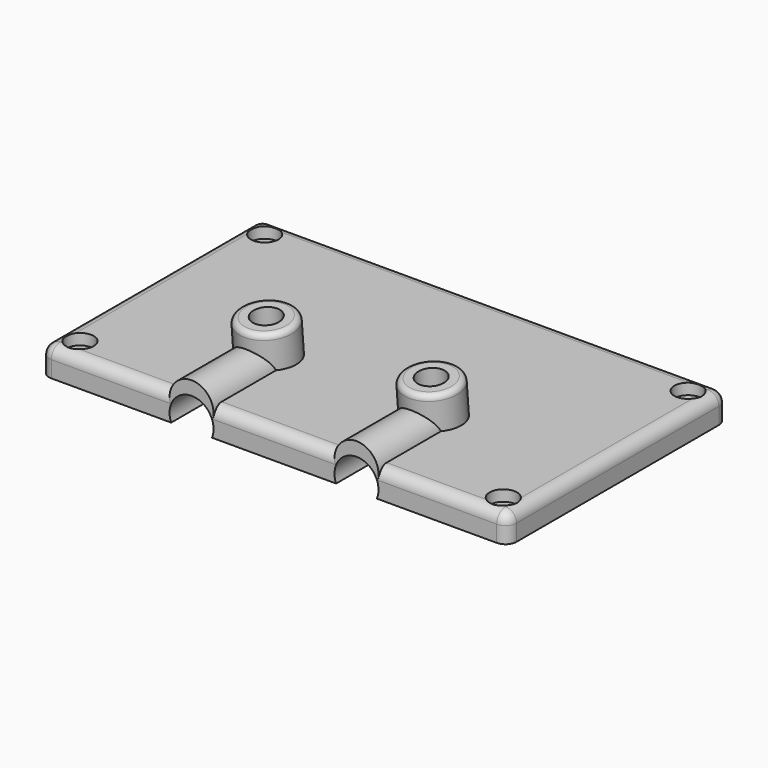
from build123d import *

# Parameters (mm, degrees)
CYLINDER010_R             = 4
CYLINDER010_DEPTH         = 30
CYLINDER011_R             = 4
CYLINDER011_DEPTH         = 30
TUBE_R                    = 5
TUBE_R_2                  = 2.5
TUBE_DEPTH                = 7
FILLET001_R               = 1
TUBE001_R                 = 5
TUBE001_R_2               = 2.5
TUBE001_DEPTH             = 7
FILLET002_R               = 1
FUSION012_PLACEMENT_ANGLE = 5
CYLINDER012_R             = 4
CYLINDER012_DEPTH         = 15
CYLINDER013_R             = 4
CYLINDER013_DEPTH         = 15
CYLINDER008_R             = 2.5
CYLINDER008_DEPTH         = 10
CYLINDER006_R             = 2.5
CYLINDER006_DEPTH         = 2
CYLINDER007_R             = 1
CYLINDER007_DEPTH         = 10
CYLINDER004_R             = 2.5
CYLINDER004_DEPTH         = 2
CYLINDER005_R             = 1
CYLINDER005_DEPTH         = 10
CYLINDER002_R             = 2.5
CYLINDER002_DEPTH         = 2
CYLINDER003_R             = 1
CYLINDER003_DEPTH         = 10
CYLINDER_R                = 2.5
CYLINDER_DEPTH            = 2
CYLINDER001_R             = 1
CYLINDER001_DEPTH         = 10
CYLINDER009_R             = 2.5
CYLINDER009_DEPTH         = 10
BOX_W                     = 85
BOX_H                     = 50
BOX_DEPTH                 = 5
FILLET_R                  = 2


with BuildPart() as cylinder010:
    # Cylinder010 → Cylinder010 (new body)
    with BuildSketch(Plane(origin=(-15, -5, 0), x_dir=(1, 0, 0), z_dir=(0, -1, 0))):
        Circle(CYLINDER010_R)
    extrude(amount=CYLINDER010_DEPTH)


with BuildPart() as fusion010:
    # Cylinder011 → Cylinder011 (new body)
    with BuildSketch(Plane(origin=(15, -5, 0), x_dir=(1, 0, 0), z_dir=(0, -1, 0))):
        Circle(CYLINDER011_R)
    extrude(amount=CYLINDER011_DEPTH)

    # Fusion010: union Cylinder010
    add(cylinder010.part)


with BuildPart() as fusion010_1:
    # Fusion010 placement: moved
    add(fusion010.part.moved(Location((0, 0, 1.5))))


with BuildPart() as fillet001:
    # Tube → Tube (new body)
    with BuildSketch(Plane(origin=(-15, -7, 5), x_dir=(1, 0, 0), z_dir=(0, 0, 1))):
        Circle(TUBE_R)
        Circle(TUBE_R_2, mode=Mode.SUBTRACT)
    extrude(amount=TUBE_DEPTH)

    # Fillet001
    fillet001_edges = [fillet001.edges().sort_by_distance(p)[0] for p in [
        (-20, -7, 12),
    ]]
    fillet(fillet001_edges, radius=FILLET001_R)


with BuildPart() as fusion012:
    # Tube001 → Tube001 (new body)
    with BuildSketch(Plane(origin=(15, -7, 5), x_dir=(1, 0, 0), z_dir=(0, 0, 1))):
        Circle(TUBE001_R)
        Circle(TUBE001_R_2, mode=Mode.SUBTRACT)
    extrude(amount=TUBE001_DEPTH)

    # Fillet002
    fillet002_edges = [fusion012.edges().sort_by_distance(p)[0] for p in [
        (10, -7, 12),
    ]]
    fillet(fillet002_edges, radius=FILLET002_R)

    # Fusion012: union Fillet001
    add(fillet001.part)


with BuildPart() as fusion012_1:
    # Fusion012 placement: moved
    add(fusion012.part.rotate(Axis((0, 0, 0), (1, 0, 0)), FUSION012_PLACEMENT_ANGLE))


with BuildPart() as cylinder012:
    # Cylinder012 → Cylinder012 (new body)
    with BuildSketch(Plane(origin=(15, -10, 4), x_dir=(1, 0, 0), z_dir=(0, -1, 0))):
        Circle(CYLINDER012_R)
    extrude(amount=CYLINDER012_DEPTH)


with BuildPart() as cylinder013:
    # Cylinder013 → Cylinder013 (new body)
    with BuildSketch(Plane(origin=(-15, -10, 4), x_dir=(1, 0, 0), z_dir=(0, -1, 0))):
        Circle(CYLINDER013_R)
    extrude(amount=CYLINDER013_DEPTH)


with BuildPart() as cylinder008:
    # Cylinder008 → Cylinder008 (new body)
    with BuildSketch(Plane(origin=(-15, -7, 1), x_dir=(1, 0, 0), z_dir=(0, 0, 1))):
        Circle(CYLINDER008_R)
    extrude(amount=CYLINDER008_DEPTH)


with BuildPart() as cylinder006:
    # Cylinder006 → Cylinder006 (new body)
    with BuildSketch(Plane.XY.offset(3)):
        Circle(CYLINDER006_R)
    extrude(amount=CYLINDER006_DEPTH)


with BuildPart() as screwhole003:
    # Cylinder007 → Cylinder007 (new body)
    with BuildSketch(Plane.XY):
        Circle(CYLINDER007_R)
    extrude(amount=CYLINDER007_DEPTH)

    # Fusion008: union Cylinder006
    add(cylinder006.part)


with BuildPart() as screwhole003_1:
    # Fusion008 placement: moved
    add(screwhole003.part.moved(Location((-38.5, -21, 0))))


with BuildPart() as cylinder004:
    # Cylinder004 → Cylinder004 (new body)
    with BuildSketch(Plane.XY.offset(3)):
        Circle(CYLINDER004_R)
    extrude(amount=CYLINDER004_DEPTH)


with BuildPart() as screwhole002:
    # Cylinder005 → Cylinder005 (new body)
    with BuildSketch(Plane.XY):
        Circle(CYLINDER005_R)
    extrude(amount=CYLINDER005_DEPTH)

    # Fusion007: union Cylinder004
    add(cylinder004.part)


with BuildPart() as screwhole002_1:
    # Fusion007 placement: moved
    add(screwhole002.part.moved(Location((38.5, -21, 0))))


with BuildPart() as cylinder002:
    # Cylinder002 → Cylinder002 (new body)
    with BuildSketch(Plane.XY.offset(3)):
        Circle(CYLINDER002_R)
    extrude(amount=CYLINDER002_DEPTH)


with BuildPart() as screwhole001:
    # Cylinder003 → Cylinder003 (new body)
    with BuildSketch(Plane.XY):
        Circle(CYLINDER003_R)
    extrude(amount=CYLINDER003_DEPTH)

    # Fusion006: union Cylinder002
    add(cylinder002.part)


with BuildPart() as screwhole001_1:
    # Fusion006 placement: moved
    add(screwhole001.part.moved(Location((-38.5, 21, 0))))


with BuildPart() as cylinder:
    # Cylinder → Cylinder (new body)
    with BuildSketch(Plane.XY.offset(3)):
        Circle(CYLINDER_R)
    extrude(amount=CYLINDER_DEPTH)


with BuildPart() as screwhole:
    # Cylinder001 → Cylinder001 (new body)
    with BuildSketch(Plane.XY):
        Circle(CYLINDER001_R)
    extrude(amount=CYLINDER001_DEPTH)

    # Fusion: union Cylinder
    add(cylinder.part)


with BuildPart() as screwhole_1:
    # Fusion placement: moved
    add(screwhole.part.moved(Location((38.5, 21, 0))))


with BuildPart() as holes:
    # Cylinder009 → Cylinder009 (new body)
    with BuildSketch(Plane(origin=(15, -7, 1), x_dir=(1, 0, 0), z_dir=(0, 0, 1))):
        Circle(CYLINDER009_R)
    extrude(amount=CYLINDER009_DEPTH)

    # Fusion009: union Cylinder008, screwHole003, screwHole002, screwHole001, screwHole
    add(cylinder008.part)
    add(screwhole003_1.part)
    add(screwhole002_1.part)
    add(screwhole001_1.part)
    add(screwhole_1.part)


with BuildPart() as displaybase:
    # Box → Box (new body)
    with BuildSketch(Plane(origin=(-42.5, -25, 0), x_dir=(1, 0, 0), z_dir=(0, 0, 1))):
        with Locations((42.5, 25)):
            Rectangle(BOX_W, BOX_H)
    extrude(amount=BOX_DEPTH)

    # Fillet
    fillet_edges = [displaybase.edges().sort_by_distance(p)[0] for p in [
        (-42.5, -25, 2.5),
        (-42.5, 0, 5),
        (-42.5, 25, 2.5),
        (42.5, -25, 2.5),
        (42.5, 0, 5),
        (42.5, 25, 2.5),
        (0, -25, 5),
        (0, 25, 5),
    ]]
    fillet(fillet_edges, radius=FILLET_R)

    # Cut: cut holes
    add(holes.part, mode=Mode.SUBTRACT)

    # Fusion013: union Fusion012, Cylinder012, Cylinder013
    add(fusion012_1.part)
    add(cylinder012.part)
    add(cylinder013.part)

    # Cut001: cut Fusion010
    add(fusion010_1.part, mode=Mode.SUBTRACT)


solid = displaybase.part
